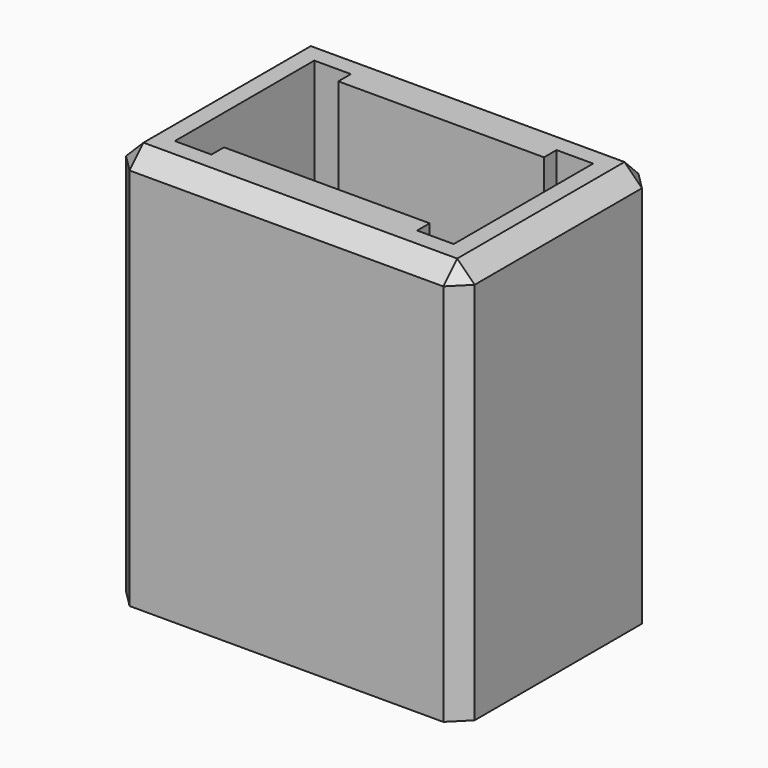
from build123d import *

# Parameters (mm, degrees)
F0_W     = 100
F0_H     = 70
F1_DEPTH = 115
F3_DEPTH = 110
F4_R     = 7.5
F5_DEPTH = 25
F6_SIZE  = 3
F7_SIZE  = 5


with BuildPart() as f1:
    # F0 (on Top) → F1 (new body)
    with BuildSketch(Plane.XY):
        with Locations((50, 35)):
            Rectangle(F0_W, F0_H)
    extrude(amount=F1_DEPTH)

    # F2 (on face) → F3 (cut)
    with BuildSketch(Plane.XY.offset(115)):
        Polygon((20.5, 60), (10, 60), (10, 50.309684), (20.5, 50.309684), (20.5, 55.5), align=None)
        Polygon((90, 60), (79.5, 60), (79.5, 55.5), (79.5, 51), (90, 51), align=None)
        Polygon((20.5, 19), (10, 19), (10, 10), (20.5, 10), (20.5, 14.5), align=None)
        Polygon((90, 10), (90, 19.087384), (79.5, 19.087384), (79.5, 14.5), (79.5, 10), align=None)
        Polygon((20.5, 50.309684), (10, 50.309684), (10, 19), (20.5, 19), (20.5, 14.5), (79.5, 14.5), (79.5, 19.087384), (90, 19.087384), (90, 51), (79.5, 51), (79.5, 55.5), (20.5, 55.5), align=None)
    extrude(amount=-F3_DEPTH, mode=Mode.SUBTRACT)

    # F4 (on face) → F5 (cut)
    with BuildSketch(Plane.XY.offset(5)):
        with Locations((50, 35)):
            Circle(F4_R)
    extrude(amount=-F5_DEPTH, mode=Mode.SUBTRACT)

    # F6
    f6_edges = [f1.edges().sort_by_distance(p)[0] for p in [
        (42.5, 35, 5),
    ]]
    chamfer(f6_edges, length=F6_SIZE)

    # F7
    f7_edges = [f1.edges().sort_by_distance(p)[0] for p in [
        (0, 35, 115),
        (50, 0, 115),
        (100, 35, 115),
        (50, 70, 115),
        (100, 0, 57.5),
        (100, 70, 57.5),
        (0, 70, 57.5),
        (0, 0, 57.5),
    ]]
    chamfer(f7_edges, length=F7_SIZE)


solid = f1.part
